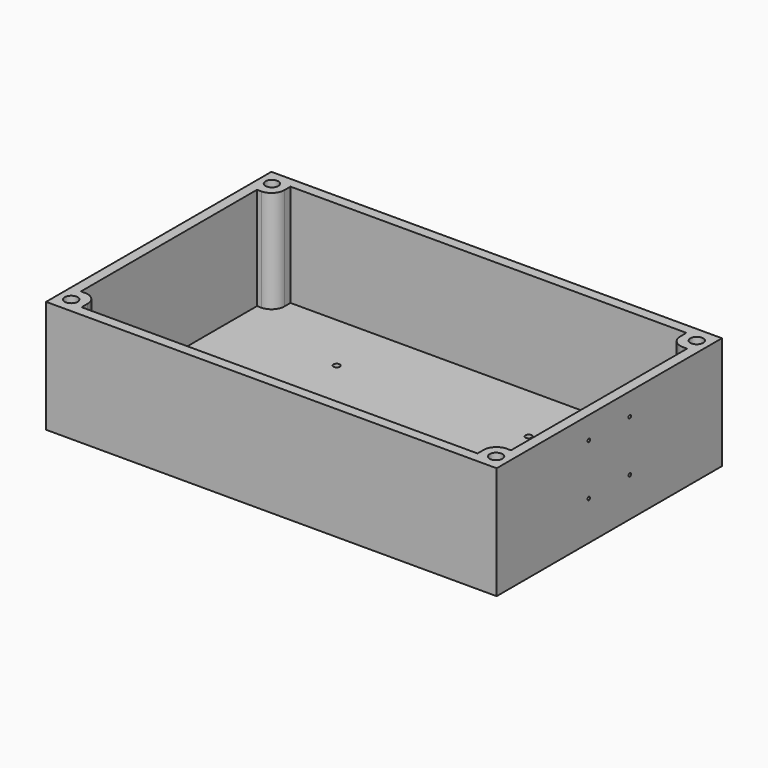
from build123d import *

# Parameters (mm, degrees)
F0_W     = 223.52
F0_H     = 139.7
F0_R     = 1.5875
F1_DEPTH = 5.08
F2_R     = 3.175
F3_DEPTH = 50.8
F4_R     = 0.79375
F5_DEPTH = 51.562


with BuildPart() as f1:
    # F0 (on Top) → F1 (new body)
    with BuildSketch(Plane.XY):
        with Locations((-125.343207, 69.85)):
            Rectangle(F0_W, F0_H)
        with Locations((-176.778207, 34.925)):
            Circle(F0_R, mode=Mode.SUBTRACT)
        with Locations((-81.528207, 34.925)):
            Circle(F0_R, mode=Mode.SUBTRACT)
        with Locations((-176.778207, 104.775)):
            Circle(F0_R, mode=Mode.SUBTRACT)
        with Locations((-81.528207, 104.775)):
            Circle(F0_R, mode=Mode.SUBTRACT)
    extrude(amount=F1_DEPTH)

    # F2 (on face) → F3 (join)
    with BuildSketch(Plane.XY.offset(5.08)):
        Polygon((-229.483207, 139.7), (-237.103207, 139.7), (-237.103207, 132.08), (-237.103207, 124.46), (-237.103207, 15.24), (-237.103207, 7.62), (-237.103207, 0), (-229.483207, 0), (-221.863207, 0), (-125.343207, 0), (-28.823207, 0), (-21.203207, 0), (-13.583207, 0), (-13.583207, 7.62), (-13.583207, 15.24), (-13.583207, 124.46), (-13.583207, 132.08), (-13.583207, 139.7), (-21.203207, 139.7), (-28.823207, 139.7), (-125.343207, 139.7), (-221.863207, 139.7), align=None)
        with Locations((-230.727843, 7.62)):
            Circle(F2_R, mode=Mode.SUBTRACT)
        with Locations((-19.958571, 7.62)):
            Circle(F2_R, mode=Mode.SUBTRACT)
        with Locations((-230.727843, 132.08)):
            Circle(F2_R, mode=Mode.SUBTRACT)
        with BuildLine():
            Line((-232.023207, 15.24), (-232.023207, 124.46))
            Line((-232.023207, 124.46), (-229.901726, 124.46))
            ThreePointArc((-229.901726, 124.46), (-225.411598, 126.319872), (-223.551726, 130.81))
            Line((-223.551726, 130.81), (-223.551726, 134.62))
            Line((-223.551726, 134.62), (-125.343207, 134.62))
            Line((-125.343207, 134.62), (-27.134688, 134.62))
            Line((-27.134688, 134.62), (-27.134688, 130.81))
            ThreePointArc((-27.134688, 130.81), (-25.274816, 126.319872), (-20.784688, 124.46))
            Line((-20.784688, 124.46), (-18.663207, 124.46))
            Line((-18.663207, 124.46), (-18.663207, 15.24))
            Line((-18.663207, 15.24), (-20.784688, 15.24))
            ThreePointArc((-20.784688, 15.24), (-25.274816, 13.380128), (-27.134688, 8.89))
            Line((-27.134688, 8.89), (-27.134688, 5.08))
            Line((-27.134688, 5.08), (-125.343207, 5.08))
            Line((-125.343207, 5.08), (-223.551726, 5.08))
            Line((-223.551726, 5.08), (-223.551726, 8.89))
            ThreePointArc((-223.551726, 8.89), (-225.411598, 13.380128), (-229.901726, 15.24))
            Line((-229.901726, 15.24), (-232.023207, 15.24))
        make_face(mode=Mode.SUBTRACT)
        with Locations((-19.958571, 132.08)):
            Circle(F2_R, mode=Mode.SUBTRACT)
    extrude(amount=F3_DEPTH)

    # F4 (on face) → F5 (cut)
    with BuildSketch(Plane(origin=(-18.663207, 0, 0), x_dir=(0, -1, 0), z_dir=(-1, 0, 0))):
        with Locations((-82.55, 44.834881)):
            Circle(F4_R)
        with Locations((-57.15, 44.834881)):
            Circle(F4_R)
        with Locations((-82.55, 19.434881)):
            Circle(F4_R)
        with Locations((-57.15, 19.434881)):
            Circle(F4_R)
    extrude(amount=-F5_DEPTH, mode=Mode.SUBTRACT)


solid = f1.part
